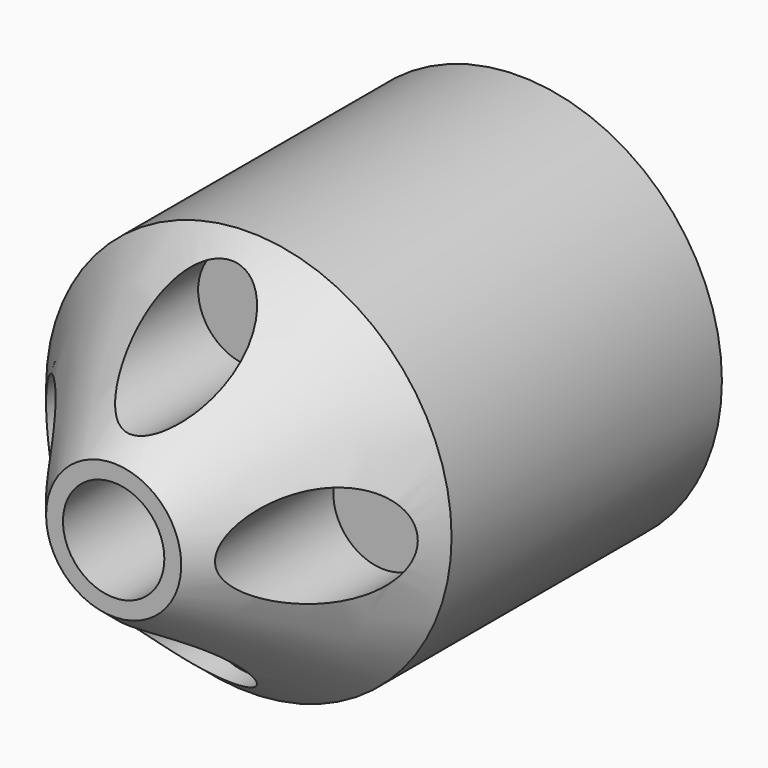
from build123d import *

# Parameters (mm, degrees)
F0_FACE_R = 60
F4_DEPTH  = 100
F1_R      = 15
F2_DEPTH  = 50.001


with BuildPart() as f0:
    # F3 (on Top) → F0 (revolve)
    with BuildSketch(Plane.XY):
        Polygon((0, 0), (-60, 0), (-20, -50), (0, -50), align=None)
    revolve(axis=Axis((0, -25, 0), (0, -1, 0)))

    # F0_face (on face) → F4 (join)
    with BuildSketch(Plane(origin=(0, 0, 0), x_dir=(-1, 0, 0), z_dir=(0, 1, 0))):
        Circle(F0_FACE_R)
    extrude(amount=F4_DEPTH)

    # F1 (on Front) → F2 (cut, through all)
    with BuildSketch(Plane.XZ):
        Circle(F1_R)
        with Locations((0, 40)):
            Circle(F1_R)
        with Locations((0, -40)):
            Circle(F1_R)
        with Locations((40, 0)):
            Circle(F1_R)
        with Locations((-40, 0)):
            Circle(F1_R)
    extrude(amount=F2_DEPTH, mode=Mode.SUBTRACT)


solid = f0.part
